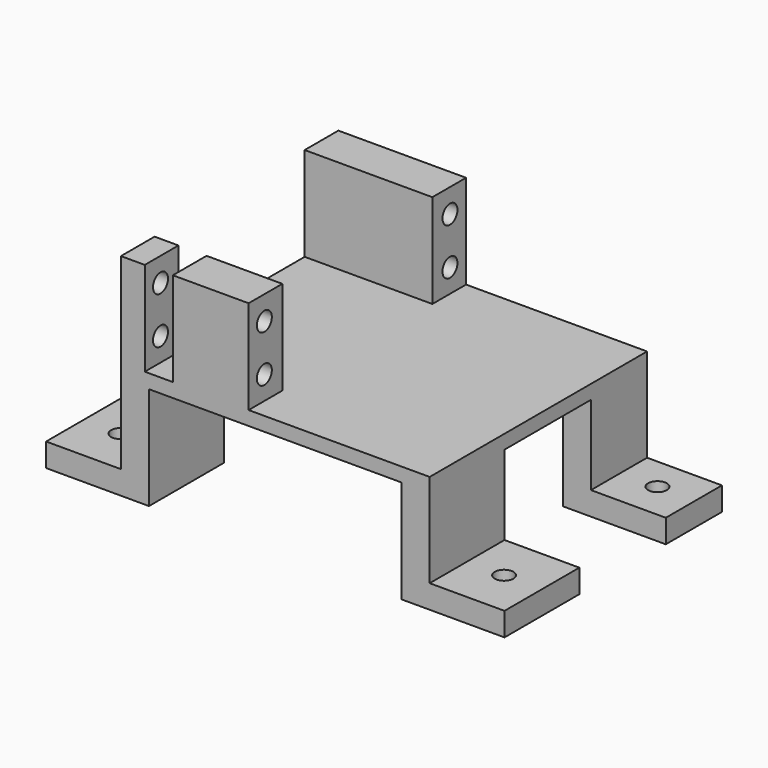
from build123d import *

# Parameters (mm, degrees)
CYLINDER324_R     = 2
CYLINDER324_DEPTH = 47
CYLINDER323_R     = 2
CYLINDER323_DEPTH = 47
BOX411_W          = 6
BOX411_H          = 15
BOX411_DEPTH      = 25
BOX409_W          = 6
BOX409_H          = 15
BOX409_DEPTH      = 25
BOX410_W          = 16
BOX410_H          = 15
BOX410_DEPTH      = 5
BOX412_W          = 16
BOX412_H          = 15
BOX412_DEPTH      = 5
BOX430_W          = 6
BOX430_H          = 9
BOX430_DEPTH      = 20.1
CYLINDER180_R     = 2
CYLINDER180_DEPTH = 33
CYLINDER179_R     = 2
CYLINDER179_DEPTH = 30
CYLINDER182_R     = 2
CYLINDER182_DEPTH = 33
CYLINDER181_R     = 2
CYLINDER181_DEPTH = 30
BOX281_W          = 27.3
BOX281_H          = 9
BOX281_DEPTH      = 20.1
BOX408_W          = 27.3
BOX408_H          = 9
BOX408_DEPTH      = 20.1
BOX283_W          = 66
BOX283_H          = 58.1
BOX283_DEPTH      = 3
CYLINDER326_R     = 2
CYLINDER326_DEPTH = 47
CYLINDER325_R     = 2
CYLINDER325_DEPTH = 47
BOX286_W          = 6
BOX286_H          = 20
BOX286_DEPTH      = 25
BOX407_W          = 16
BOX407_H          = 20
BOX407_DEPTH      = 5
BOX288_W          = 6
BOX288_H          = 20
BOX288_DEPTH      = 25
BOX406_W          = 16
BOX406_H          = 20
BOX406_DEPTH      = 5


with BuildPart() as cylinder324:
    # Cylinder324 → Cylinder324 (new body)
    with BuildSketch(Plane(origin=(-75, -98, -5), x_dir=(1, 0, 0), z_dir=(0, 0, 1))):
        Circle(CYLINDER324_R)
    extrude(amount=CYLINDER324_DEPTH)


with BuildPart() as fusion314:
    # Cylinder323 → Cylinder323 (new body)
    with BuildSketch(Plane(origin=(7, -98, -5), x_dir=(1, 0, 0), z_dir=(0, 0, 1))):
        Circle(CYLINDER323_R)
    extrude(amount=CYLINDER323_DEPTH)

    # Fusion314: union Cylinder324
    add(cylinder324.part)


with BuildPart() as fusion314_1:
    # Fusion314 placement: moved
    add(fusion314.part.moved(Location((0, 41, 0))))


with BuildPart() as box411:
    # Box411 → Box411 (new body)
    with BuildSketch(Plane(origin=(-6.9, -64.9, 37), x_dir=(1, 0, 0), z_dir=(0, 0, 1))):
        with Locations((3, 7.5)):
            Rectangle(BOX411_W, BOX411_H)
    extrude(amount=BOX411_DEPTH)


with BuildPart() as box409:
    # Box409 → Box409 (new body)
    with BuildSketch(Plane(origin=(-66.9, -64.9, 37), x_dir=(1, 0, 0), z_dir=(0, 0, 1))):
        with Locations((3, 7.5)):
            Rectangle(BOX409_W, BOX409_H)
    extrude(amount=BOX409_DEPTH)


with BuildPart() as box410:
    # Box410 → Box410 (new body)
    with BuildSketch(Plane(origin=(-82.9, -64.9, 37), x_dir=(1, 0, 0), z_dir=(0, 0, 1))):
        with Locations((8, 7.5)):
            Rectangle(BOX410_W, BOX410_H)
    extrude(amount=BOX410_DEPTH)


with BuildPart() as cut338:
    # Box412 → Box412 (new body)
    with BuildSketch(Plane(origin=(-0.9, -64.9, 37), x_dir=(1, 0, 0), z_dir=(0, 0, 1))):
        with Locations((8, 7.5)):
            Rectangle(BOX412_W, BOX412_H)
    extrude(amount=BOX412_DEPTH)

    # Fusion322: union Box411, Box409, Box410
    add(box411.part)
    add(box409.part)
    add(box410.part)

    # Cut338: cut Fusion314
    add(fusion314_1.part, mode=Mode.SUBTRACT)


with BuildPart() as box430:
    # Box430 → Box430 (new body)
    with BuildSketch(Plane(origin=(-66.5, -108, 62), x_dir=(1, 0, 0), z_dir=(0, 0, 1))):
        with Locations((3, 4.5)):
            Rectangle(BOX430_W, BOX430_H)
    extrude(amount=BOX430_DEPTH)


with BuildPart() as cylinder180:
    # Cylinder180 → Cylinder180 (new body)
    with BuildSketch(Plane(origin=(-74.6, -105.8, 63), x_dir=(0, 0, -1), z_dir=(1, 0, 0))):
        Circle(CYLINDER180_R)
    extrude(amount=CYLINDER180_DEPTH)


with BuildPart() as fusion247:
    # Cylinder179 → Cylinder179 (new body)
    with BuildSketch(Plane(origin=(-71.6, -105.8, 73), x_dir=(0, 0, -1), z_dir=(1, 0, 0))):
        Circle(CYLINDER179_R)
    extrude(amount=CYLINDER179_DEPTH)

    # Fusion247: union Cylinder180
    add(cylinder180.part)


with BuildPart() as fusion247_1:
    # Fusion247 placement: moved
    add(fusion247.part.moved(Location((0, 2, 4))))


with BuildPart() as cylinder182:
    # Cylinder182 → Cylinder182 (new body)
    with BuildSketch(Plane(origin=(-74.6, -56.2, 63), x_dir=(0, 0, -1), z_dir=(1, 0, 0))):
        Circle(CYLINDER182_R)
    extrude(amount=CYLINDER182_DEPTH)


with BuildPart() as fusion252:
    # Cylinder181 → Cylinder181 (new body)
    with BuildSketch(Plane(origin=(-71.6, -56.2, 73), x_dir=(0, 0, -1), z_dir=(1, 0, 0))):
        Circle(CYLINDER181_R)
    extrude(amount=CYLINDER181_DEPTH)

    # Fusion246: union Cylinder182
    add(cylinder182.part)


with BuildPart() as fusion252_1:
    # Fusion246 placement: moved
    add(fusion252.part.moved(Location((0, 2, 4))))

    # Fusion252: union Fusion247
    add(fusion247_1.part)


with BuildPart() as box281:
    # Box281 → Box281 (new body)
    with BuildSketch(Plane(origin=(-71.6, -108, 62), x_dir=(1, 0, 0), z_dir=(0, 0, 1))):
        with Locations((13.65, 4.5)):
            Rectangle(BOX281_W, BOX281_H)
    extrude(amount=BOX281_DEPTH)


with BuildPart() as box408:
    # Box408 → Box408 (new body)
    with BuildSketch(Plane(origin=(-71.6, -58.9, 62), x_dir=(1, 0, 0), z_dir=(0, 0, 1))):
        with Locations((13.65, 4.5)):
            Rectangle(BOX408_W, BOX408_H)
    extrude(amount=BOX408_DEPTH)


with BuildPart() as cut336:
    # Box283 → Box283 (new body)
    with BuildSketch(Plane(origin=(-71.6, -108, 59), x_dir=(1, 0, 0), z_dir=(0, 0, 1))):
        with Locations((33, 29.05)):
            Rectangle(BOX283_W, BOX283_H)
    extrude(amount=BOX283_DEPTH)

    # Fusion251: union Box281, Box408
    add(box281.part)
    add(box408.part)

    # Cut283: cut Fusion252
    add(fusion252_1.part, mode=Mode.SUBTRACT)

    # Cut336: cut Box430
    add(box430.part, mode=Mode.SUBTRACT)


with BuildPart() as cut336_1:
    # Cut336 placement: moved
    add(cut336.part.moved(Location((4.7, 0, 0))))


with BuildPart() as cylinder326:
    # Cylinder326 → Cylinder326 (new body)
    with BuildSketch(Plane(origin=(-75, -98, -5), x_dir=(1, 0, 0), z_dir=(0, 0, 1))):
        Circle(CYLINDER326_R)
    extrude(amount=CYLINDER326_DEPTH)


with BuildPart() as fusion315:
    # Cylinder325 → Cylinder325 (new body)
    with BuildSketch(Plane(origin=(7, -98, -5), x_dir=(1, 0, 0), z_dir=(0, 0, 1))):
        Circle(CYLINDER325_R)
    extrude(amount=CYLINDER325_DEPTH)

    # Fusion315: union Cylinder326
    add(cylinder326.part)


with BuildPart() as box286:
    # Box286 → Box286 (new body)
    with BuildSketch(Plane(origin=(-66.9, -108, 37), x_dir=(1, 0, 0), z_dir=(0, 0, 1))):
        with Locations((3, 10)):
            Rectangle(BOX286_W, BOX286_H)
    extrude(amount=BOX286_DEPTH)


with BuildPart() as box407:
    # Box407 → Box407 (new body)
    with BuildSketch(Plane(origin=(-0.9, -108, 37), x_dir=(1, 0, 0), z_dir=(0, 0, 1))):
        with Locations((8, 10)):
            Rectangle(BOX407_W, BOX407_H)
    extrude(amount=BOX407_DEPTH)


with BuildPart() as box288:
    # Box288 → Box288 (new body)
    with BuildSketch(Plane(origin=(-6.9, -108, 37), x_dir=(1, 0, 0), z_dir=(0, 0, 1))):
        with Locations((3, 10)):
            Rectangle(BOX288_W, BOX288_H)
    extrude(amount=BOX288_DEPTH)


with BuildPart() as fusion324:
    # Box406 → Box406 (new body)
    with BuildSketch(Plane(origin=(-82.9, -108, 37), x_dir=(1, 0, 0), z_dir=(0, 0, 1))):
        with Locations((8, 10)):
            Rectangle(BOX406_W, BOX406_H)
    extrude(amount=BOX406_DEPTH)

    # Fusion249: union Box286, Box407, Box288
    add(box286.part)
    add(box407.part)
    add(box288.part)

    # Cut337: cut Fusion315
    add(fusion315.part, mode=Mode.SUBTRACT)

    # Fusion324: union Cut338, Cut336
    add(cut338.part)
    add(cut336_1.part)


solid = fusion324.part
